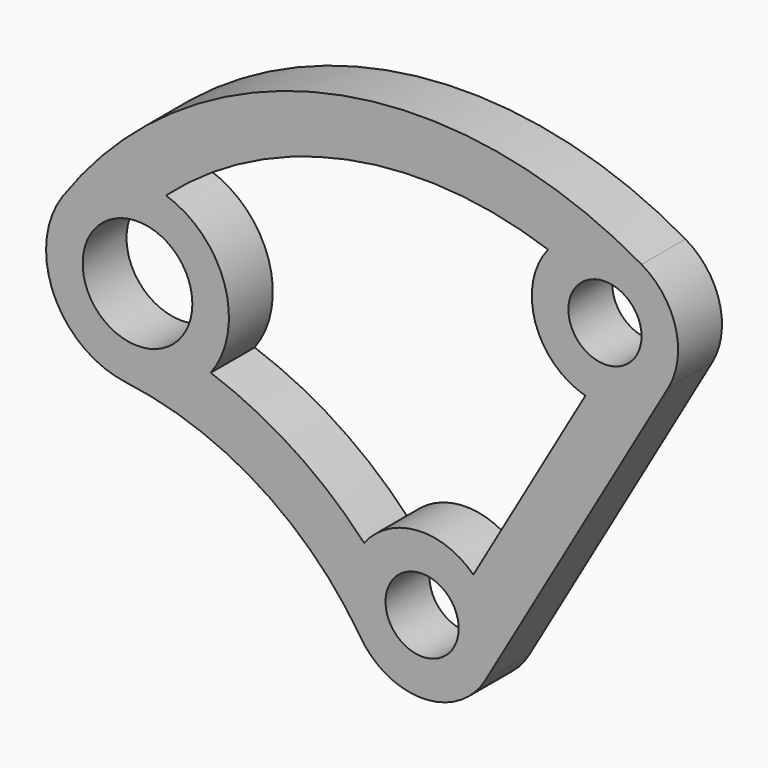
from build123d import *

# Parameters (mm, degrees)
F0_R     = 254
F0_R_2   = 381
F1_DEPTH = 381


with BuildPart() as f1:
    # F0 (on Front) → F1 (new body)
    with BuildSketch(Plane.XZ):
        with BuildLine():
            ThreePointArc((1709.940905, 1945.704526), (1760.69032, 2331.184601), (1524, 2639.645431))
            ThreePointArc((1524, 2639.645431), (-659.707943, 2975.75023), (-2496.775431, 1748.260978))
            ThreePointArc((-2496.775431, 1748.260978), (-2557.434532, 1127.383803), (-2057.521233, 754.215362))
            ThreePointArc((-2057.521233, 754.215362), (-1128.449023, 419.867707), (-427.052308, -275.11875))
            ThreePointArc((-427.052308, -275.11875), (12.370505, -507.849358), (439.940905, -254))
            Line((439.940905, -254), (1709.940905, 1945.704526))
        make_face()
        Circle(F0_R, mode=Mode.SUBTRACT)
        with Locations((-1976.613883, 1384.039941)):
            Circle(F0_R_2, mode=Mode.SUBTRACT)
        with BuildLine():
            ThreePointArc((-402.359214, 310.114596), (-893.111016, 721.549186), (-1467.794386, 1004.135059))
            ThreePointArc((-1467.794386, 1004.135059), (-1371.137018, 1575.410697), (-1778.559695, 1987.363684))
            ThreePointArc((-1778.559695, 1987.363684), (-524.190367, 2615.000272), (875.174565, 2519.355704))
            ThreePointArc((875.174565, 2519.355704), (786.155182, 2044.920184), (1134.013399, 1710.243961))
            Line((1134.013399, 1710.243961), (355.947353, 362.443764))
            ThreePointArc((355.947353, 362.443764), (-34.972856, 506.794731), (-402.359214, 310.114596))
        make_face(mode=Mode.SUBTRACT)
        with Locations((1270, 2199.704526)):
            Circle(F0_R, mode=Mode.SUBTRACT)
    extrude(amount=F1_DEPTH)


solid = f1.part
